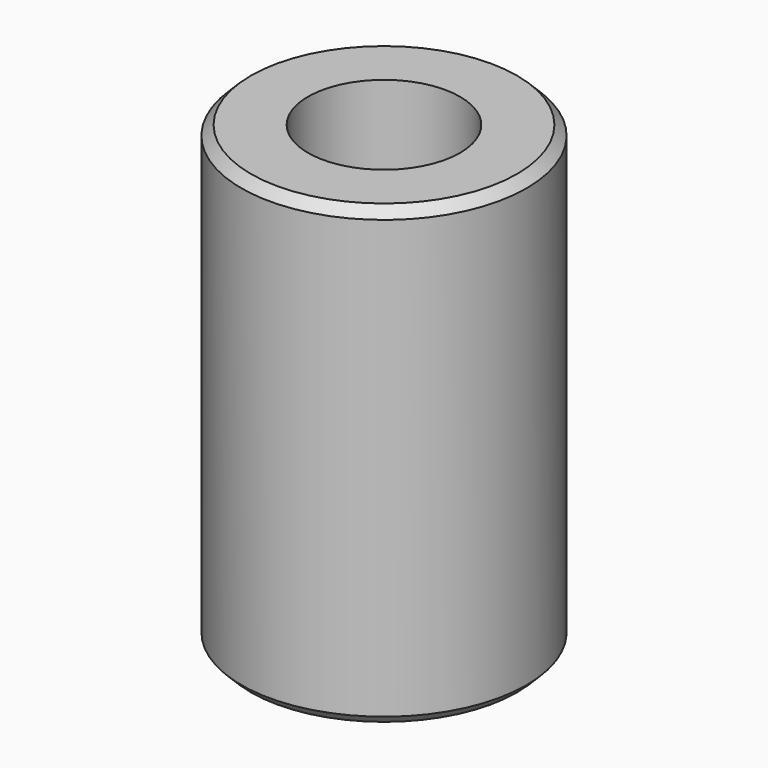
from build123d import *

# Parameters (mm, degrees)
SKETCH_R     = 7.5
SKETCH_R_2   = 4
PAD_DEPTH    = 24
CHAMFER_SIZE = 0.5


with BuildPart() as part:
    # Sketch → Pad (new body)
    with BuildSketch(Plane.XY):
        Circle(SKETCH_R)
        Circle(SKETCH_R_2, mode=Mode.SUBTRACT)
    extrude(amount=PAD_DEPTH)

    # Chamfer
    chamfer_edges = [part.edges().sort_by_distance(p)[0] for p in [
        (-7.5, 0, 24),
        (-7.5, 0, 0),
    ]]
    chamfer(chamfer_edges, length=CHAMFER_SIZE)


solid = part.part
